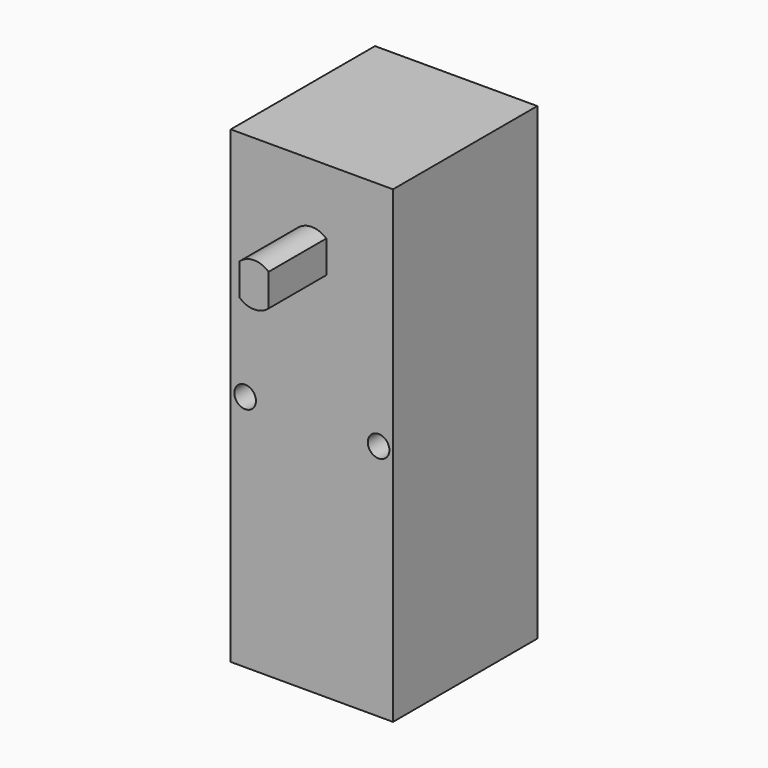
from build123d import *

# Parameters (mm, degrees)
F0_W     = 22.5
F0_H     = 65
F0_R     = 1.5
F1_DEPTH = 25
F3_DEPTH = 10


with BuildPart() as f1:
    # F0 (on Front) → F1 (new body)
    with BuildSketch(Plane.XZ):
        Rectangle(F0_W, F0_H)
        with Locations((-9.25, 0.5)):
            Circle(F0_R, mode=Mode.SUBTRACT)
        with Locations((9.25, 0.5)):
            Circle(F0_R, mode=Mode.SUBTRACT)
    extrude(amount=F1_DEPTH)

    # F2 (on face) → F3 (join)
    with BuildSketch(Plane.XZ.offset(25)):
        with BuildLine():
            Line((2, 19.013932), (2, 23.486068))
            ThreePointArc((2, 23.486068), (0, 24.25), (-2, 23.486068))
            Line((-2, 23.486068), (-2, 19.013932))
            ThreePointArc((-2, 19.013932), (0, 18.25), (2, 19.013932))
        make_face()
    extrude(amount=F3_DEPTH)


solid = f1.part
